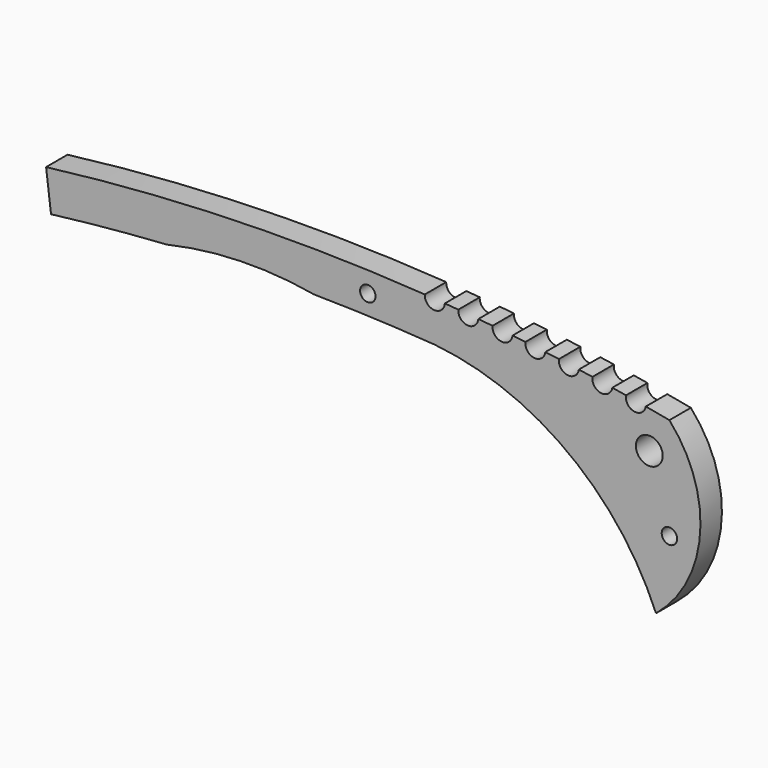
from build123d import *

# Parameters (mm, degrees)
F0_R     = 1.15
F0_R_2   = 2
F1_DEPTH = 4


with BuildPart() as f1:
    # F0 (on Front) → F1 (new body)
    with BuildSketch(Plane.XZ):
        with BuildLine():
            ThreePointArc((83, -17.020984), (89.584854, -4.43975), (85, 9))
            ThreePointArc((85, 9), (83.239705, 9.329369), (81.477475, 9.648224))
            ThreePointArc((81.477475, 9.648224), (79.744723, 8.429077), (78.521248, 10.158776))
            ThreePointArc((78.521248, 10.158776), (77.501731, 10.327801), (76.481638, 10.493312))
            ThreePointArc((76.481638, 10.493312), (74.769723, 9.245075), (73.51721, 10.953864))
            ThreePointArc((73.51721, 10.953864), (72.501545, 11.104684), (71.48537, 11.252026))
            ThreePointArc((71.48537, 11.252026), (69.794723, 9.97513), (68.513604, 11.662579))
            ThreePointArc((68.513604, 11.662579), (67.501361, 11.795514), (66.488672, 11.925004))
            ThreePointArc((66.488672, 11.925004), (64.819723, 10.619876), (63.510427, 12.285557))
            ThreePointArc((63.510427, 12.285557), (62.551942, 12.395171), (61.59311, 12.501703))
            ThreePointArc((61.59311, 12.501703), (59.945831, 11.169329), (58.609343, 12.813272))
            ThreePointArc((58.609343, 12.813272), (57.551852, 12.916464), (56.494002, 13.015909))
            ThreePointArc((56.494002, 13.015909), (54.869723, 11.655589), (53.505347, 13.276462))
            ThreePointArc((53.505347, 13.276462), (52.500823, 13.35728), (51.496033, 13.434723))
            ThreePointArc((51.496033, 13.434723), (49.894723, 12.04744), (48.50344, 13.645276))
            ThreePointArc((48.50344, 13.645276), (20.212883, 14.156434), (-8, 12))
            Line((-8, 12), (-7.261107, 6.045671))
            ThreePointArc((-7.261107, 6.045671), (1.357451, 6.986365), (10, 7.672526))
            ThreePointArc((10, 7.672526), (20.969929, 9.081732), (32, 8.267657))
            ThreePointArc((32, 8.267657), (41.005662, 8.036034), (50, 7.528604))
            ThreePointArc((50, 7.528604), (69.897071, -0.179786), (83, -17.020984))
        make_face()
        with Locations((85, -6.225)):
            Circle(F0_R, mode=Mode.SUBTRACT)
        with Locations((40, 11)):
            Circle(F0_R, mode=Mode.SUBTRACT)
        with Locations((82, 4)):
            Circle(F0_R_2, mode=Mode.SUBTRACT)
    extrude(amount=F1_DEPTH)


solid = f1.part
